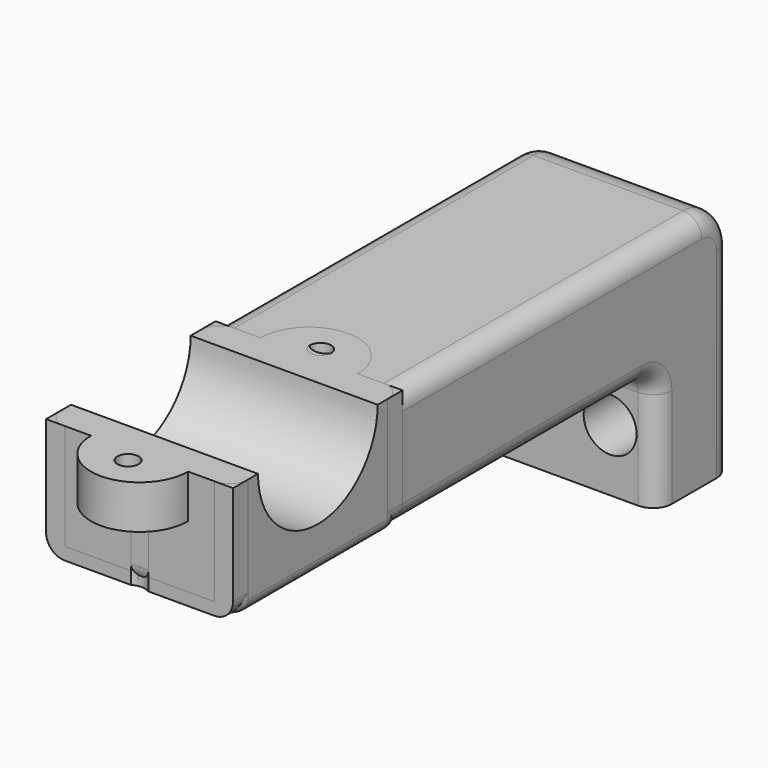
from build123d import *

# Parameters (mm, degrees)
SKETCH_W               = 30
SKETCH_H               = 38
PAD_DEPTH              = 15
SKETCH001_W            = 30
SKETCH001_H            = 19
PAD001_DEPTH           = 85
POCKET_DEPTH           = 30.001
SKETCH004_R            = 2.25
POCKET001_DEPTH        = 15.001
SKETCH005_R            = 4.25
POCKET002_DEPTH        = 10
PAD002_DEPTH           = 7
SKETCH007_R            = 2.3
POCKET003_DEPTH        = 4.2
SKETCH008_R            = 2.3
POCKET004_DEPTH        = 4.2
FILLET_R               = 3
FILLET007_R            = 6
FILLET008_R            = 3
FILLET009_R            = 3
FILLET010_R            = 3
CHAMFER_SIZE           = 1
BOX001_W               = 30
BOX001_H               = 83
BOX001_DEPTH           = 38
SKETCH017_W            = 30
SKETCH017_H            = 38
PAD006_DEPTH           = 15
SKETCH018_W            = 30
SKETCH018_H            = 19
PAD007_DEPTH           = 85
POCKET010_DEPTH        = 30.001
SKETCH020_R            = 2.25
POCKET011_DEPTH        = 15.001
SKETCH021_R            = 4.25
POCKET012_DEPTH        = 10
PAD008_DEPTH           = 7
SKETCH023_R            = 2.7
POCKET013_DEPTH        = 3.2
POCKET013_DEPTH_BACK   = -12
SKETCH024_R            = 1.7
POCKET014_DEPTH        = 38.001
CUT001_PLACEMENT_ANGLE = 180
BOX_W                  = 30
BOX_H                  = 83
BOX_DEPTH              = 38
SKETCH009_W            = 30
SKETCH009_H            = 38
PAD003_DEPTH           = 15
SKETCH010_W            = 30
SKETCH010_H            = 19
PAD004_DEPTH           = 85
POCKET005_DEPTH        = 30.001
SKETCH012_R            = 2.25
POCKET006_DEPTH        = 15.001
SKETCH013_R            = 4.25
POCKET007_DEPTH        = 10
PAD005_DEPTH           = 7
SKETCH015_R            = 2.7
POCKET008_DEPTH        = 3.2
POCKET008_DEPTH_BACK   = -12
SKETCH016_R            = 1.7
POCKET009_DEPTH        = 38.001
FILLET005_R            = 3
FILLET006_R            = 3
FILLET011_R            = 3
FILLET012_R            = 2
FILLET013_R            = 2


with BuildPart() as bracket:
    # Sketch → Pad (new body)
    with BuildSketch(Plane.XZ):
        with Locations((0, 19)):
            Rectangle(SKETCH_W, SKETCH_H)
    extrude(amount=PAD_DEPTH)

    # Sketch001 (on Face6 of Pad) → Pad001 (join)
    with BuildSketch(Plane.XZ.offset(15)):
        with Locations((0, 28.5)):
            Rectangle(SKETCH001_W, SKETCH001_H)
    extrude(amount=PAD001_DEPTH)

    # Sketch003 (on Face6 of Pad001) → Pocket (cut, through all)
    with BuildSketch(Plane(origin=(-15, 0, 0), x_dir=(0, 0, -1), z_dir=(-1, 0, 0))):
        with BuildLine():
            ThreePointArc((-38, 69.6), (-25.3, 82.3), (-38, 95))
            Line((-38, 69.6), (-38, 95))
        make_face()
    extrude(amount=-POCKET_DEPTH, mode=Mode.SUBTRACT)

    # Sketch004 (on Face5 of Pocket) → Pocket001 (cut, through all)
    with BuildSketch(Plane.XZ.offset(15)):
        with Locations((-7.5, 10)):
            Circle(SKETCH004_R)
        with Locations((7.5, 10)):
            Circle(SKETCH004_R)
    extrude(amount=-POCKET001_DEPTH, mode=Mode.SUBTRACT)

    # Sketch005 (on Face5 of Pocket001) → Pocket002 (cut)
    with BuildSketch(Plane.XZ.offset(15)):
        with Locations((-7.5, 10)):
            Circle(SKETCH005_R)
        with Locations((7.5, 10)):
            Circle(SKETCH005_R)
    extrude(amount=-POCKET002_DEPTH, mode=Mode.SUBTRACT)

    # Sketch006 (on Face8 of Pocket002) → Pad002 (join)
    with BuildSketch(Plane(origin=(0, 0, 38), x_dir=(-1, 0, 0), z_dir=(0, 0, 1))):
        with BuildLine():
            ThreePointArc((7.8, 100), (-1e-06, 107.8), (-7.8, 99.999997))
            Line((-7.8, 99.999997), (7.8, 100))
        make_face()
    extrude(amount=-PAD002_DEPTH)

    # Sketch007 (on Face18 of Pad002) → Pocket003 (cut)
    with BuildSketch(Plane(origin=(0, 0, 38), x_dir=(-1, 0, 0), z_dir=(0, 0, 1))):
        with Locations((0, 102.3)):
            Circle(SKETCH007_R)
    extrude(amount=-POCKET003_DEPTH, mode=Mode.SUBTRACT)

    # Sketch008 (on Face6 of Pocket003) → Pocket004 (cut)
    with BuildSketch(Plane(origin=(0, 0, 38), x_dir=(-1, 0, 0), z_dir=(0, 0, 1))):
        with Locations((0, 62.3)):
            Circle(SKETCH008_R)
    extrude(amount=-POCKET004_DEPTH, mode=Mode.SUBTRACT)

    # Fillet
    fillet_edges = [bracket.edges().sort_by_distance(p)[0] for p in [
        (0, -15, 19),
    ]]
    fillet(fillet_edges, radius=FILLET_R)

    # Fillet007
    fillet007_edges = [bracket.edges().sort_by_distance(p)[0] for p in [
        (0, 0, 38),
    ]]
    fillet(fillet007_edges, radius=FILLET007_R)

    # Fillet008
    fillet008_edges = [bracket.edges().sort_by_distance(p)[0] for p in [
        (15, -59, 19),
        (-15, -59, 19),
    ]]
    fillet(fillet008_edges, radius=FILLET008_R)

    # Fillet009
    fillet009_edges = [bracket.edges().sort_by_distance(p)[0] for p in [
        (0, -100, 19),
    ]]
    fillet(fillet009_edges, radius=FILLET009_R)

    # Fillet010
    fillet010_edges = [bracket.edges().sort_by_distance(p)[0] for p in [
        (15, -37.8, 38),
        (-15, -37.8, 38),
    ]]
    fillet(fillet010_edges, radius=FILLET010_R)

    # Chamfer
    chamfer_edges = [bracket.edges().sort_by_distance(p)[0] for p in [
        (-9.75, -5, 10),
        (5.25, -5, 10),
    ]]
    chamfer(chamfer_edges, length=CHAMFER_SIZE)


with BuildPart() as cube001:
    # Box001 → Box001 (new body)
    with BuildSketch(Plane(origin=(-15, -83, 0), x_dir=(1, 0, 0), z_dir=(0, 0, 1))):
        with Locations((15, 41.5)):
            Rectangle(BOX001_W, BOX001_H)
    extrude(amount=BOX001_DEPTH)


with BuildPart() as cut001:
    # Sketch017 → Pad006 (new body)
    with BuildSketch(Plane.XZ):
        with Locations((0, 19)):
            Rectangle(SKETCH017_W, SKETCH017_H)
    extrude(amount=PAD006_DEPTH)

    # Sketch018 (on Face6 of Pad006) → Pad007 (join)
    with BuildSketch(Plane.XZ.offset(15)):
        with Locations((0, 28.5)):
            Rectangle(SKETCH018_W, SKETCH018_H)
    extrude(amount=PAD007_DEPTH)

    # Sketch019 (on Face6 of Pad007) → Pocket010 (cut, through all)
    with BuildSketch(Plane(origin=(-15, 0, 0), x_dir=(0, 0, -1), z_dir=(-1, 0, 0))):
        with BuildLine():
            ThreePointArc((-38, 71), (-26, 83), (-38, 95))
            Line((-38, 71), (-38, 95))
        make_face()
    extrude(amount=-POCKET010_DEPTH, mode=Mode.SUBTRACT)

    # Sketch020 (on Face5 of Pocket010) → Pocket011 (cut, through all)
    with BuildSketch(Plane.XZ.offset(15)):
        with Locations((-7.5, 10)):
            Circle(SKETCH020_R)
        with Locations((7.5, 10)):
            Circle(SKETCH020_R)
    extrude(amount=-POCKET011_DEPTH, mode=Mode.SUBTRACT)

    # Sketch021 (on Face5 of Pocket011) → Pocket012 (cut)
    with BuildSketch(Plane.XZ.offset(15)):
        with Locations((-7.5, 10)):
            Circle(SKETCH021_R)
        with Locations((7.5, 10)):
            Circle(SKETCH021_R)
    extrude(amount=-POCKET012_DEPTH, mode=Mode.SUBTRACT)

    # Sketch022 (on Face8 of Pocket012) → Pad008 (join)
    with BuildSketch(Plane(origin=(0, 0, 38), x_dir=(-1, 0, 0), z_dir=(0, 0, 1))):
        with BuildLine():
            ThreePointArc((7.8, 100), (-1e-06, 107.8), (-7.8, 99.999997))
            Line((-7.8, 99.999997), (7.8, 100))
        make_face()
    extrude(amount=-PAD008_DEPTH)

    # Sketch023 (on Face15 of Pad008) → Pocket013 (cut, two sides)
    with BuildSketch(Plane(origin=(0, 0, 31), x_dir=(1, 0, 0), z_dir=(0, 0, -1))) as pocket013_sk:
        with Locations((0, 102.3)):
            Circle(SKETCH023_R)
    extrude(amount=-POCKET013_DEPTH, mode=Mode.SUBTRACT)
    extrude(pocket013_sk.sketch, amount=-POCKET013_DEPTH_BACK, mode=Mode.SUBTRACT)

    # Sketch024 (on Face8 of Pocket013) → Pocket014 (cut, through all)
    with BuildSketch(Plane(origin=(0, 0, 38), x_dir=(-1, 0, 0), z_dir=(0, 0, 1))):
        with Locations((0, 102.3)):
            Circle(SKETCH024_R)
    extrude(amount=-POCKET014_DEPTH, mode=Mode.SUBTRACT)

    # Cut001: cut Cube001
    add(cube001.part, mode=Mode.SUBTRACT)


with BuildPart() as cut001_1:
    # Cut001 placement: moved
    add(cut001.part.moved(Location((0, -166, 0))).rotate(Axis((0, -166, 0), (0, 0, 1)), CUT001_PLACEMENT_ANGLE))


with BuildPart() as cube:
    # Box → Box (new body)
    with BuildSketch(Plane(origin=(-15, -83, 0), x_dir=(1, 0, 0), z_dir=(0, 0, 1))):
        with Locations((15, 41.5)):
            Rectangle(BOX_W, BOX_H)
    extrude(amount=BOX_DEPTH)


with BuildPart() as clamp:
    # Sketch009 → Pad003 (new body)
    with BuildSketch(Plane.XZ):
        with Locations((0, 19)):
            Rectangle(SKETCH009_W, SKETCH009_H)
    extrude(amount=PAD003_DEPTH)

    # Sketch010 (on Face6 of Pad003) → Pad004 (join)
    with BuildSketch(Plane.XZ.offset(15)):
        with Locations((0, 28.5)):
            Rectangle(SKETCH010_W, SKETCH010_H)
    extrude(amount=PAD004_DEPTH)

    # Sketch011 (on Face6 of Pad004) → Pocket005 (cut, through all)
    with BuildSketch(Plane(origin=(-15, 0, 0), x_dir=(0, 0, -1), z_dir=(-1, 0, 0))):
        with BuildLine():
            ThreePointArc((-38, 71), (-26, 83), (-38, 95))
            Line((-38, 71), (-38, 95))
        make_face()
    extrude(amount=-POCKET005_DEPTH, mode=Mode.SUBTRACT)

    # Sketch012 (on Face5 of Pocket005) → Pocket006 (cut, through all)
    with BuildSketch(Plane.XZ.offset(15)):
        with Locations((-7.5, 10)):
            Circle(SKETCH012_R)
        with Locations((7.5, 10)):
            Circle(SKETCH012_R)
    extrude(amount=-POCKET006_DEPTH, mode=Mode.SUBTRACT)

    # Sketch013 (on Face5 of Pocket006) → Pocket007 (cut)
    with BuildSketch(Plane.XZ.offset(15)):
        with Locations((-7.5, 10)):
            Circle(SKETCH013_R)
        with Locations((7.5, 10)):
            Circle(SKETCH013_R)
    extrude(amount=-POCKET007_DEPTH, mode=Mode.SUBTRACT)

    # Sketch014 (on Face8 of Pocket007) → Pad005 (join)
    with BuildSketch(Plane(origin=(0, 0, 38), x_dir=(-1, 0, 0), z_dir=(0, 0, 1))):
        with BuildLine():
            ThreePointArc((7.8, 100), (-1e-06, 107.8), (-7.8, 99.999997))
            Line((-7.8, 99.999997), (7.8, 100))
        make_face()
    extrude(amount=-PAD005_DEPTH)

    # Sketch015 (on Face15 of Pad005) → Pocket008 (cut, two sides)
    with BuildSketch(Plane(origin=(0, 0, 31), x_dir=(1, 0, 0), z_dir=(0, 0, -1))) as pocket008_sk:
        with Locations((0, 102.3)):
            Circle(SKETCH015_R)
    extrude(amount=-POCKET008_DEPTH, mode=Mode.SUBTRACT)
    extrude(pocket008_sk.sketch, amount=-POCKET008_DEPTH_BACK, mode=Mode.SUBTRACT)

    # Sketch016 (on Face8 of Pocket008) → Pocket009 (cut, through all)
    with BuildSketch(Plane(origin=(0, 0, 38), x_dir=(-1, 0, 0), z_dir=(0, 0, 1))):
        with Locations((0, 102.3)):
            Circle(SKETCH016_R)
    extrude(amount=-POCKET009_DEPTH, mode=Mode.SUBTRACT)

    # Cut: cut Cube
    add(cube.part, mode=Mode.SUBTRACT)

    # Fusion: union Cut001
    add(cut001_1.part)


with BuildPart() as body:
    # Body003 base: copy of clamp
    add(clamp.part)

    # Fillet005
    fillet005_edges = [body.edges().sort_by_distance(p)[0] for p in [
        (15, -74.5, 19),
    ]]
    fillet(fillet005_edges, radius=FILLET005_R)

    # Fillet006
    fillet006_edges = [body.edges().sort_by_distance(p)[0] for p in [
        (-15, -83, 19),
    ]]
    fillet(fillet006_edges, radius=FILLET006_R)


with BuildPart() as clamp001:
    # Body004 base: copy of clamp
    add(clamp.part)

    # Fillet011
    fillet011_edges = [clamp001.edges().sort_by_distance(p)[0] for p in [
        (-15, -66, 28.5),
        (15, -66, 28.5),
        (-15, -100, 28.5),
        (15, -100, 28.5),
    ]]
    fillet(fillet011_edges, radius=FILLET011_R)

    # Fillet012
    fillet012_edges = [clamp001.edges().sort_by_distance(p)[0] for p in [
        (-6.707107, -66, 19),
    ]]
    fillet(fillet012_edges, radius=FILLET012_R)

    # Fillet013
    fillet013_edges = [clamp001.edges().sort_by_distance(p)[0] for p in [
        (15, -83, 19),
    ]]
    fillet(fillet013_edges, radius=FILLET013_R)


solid = Compound([bracket.part, body.part, clamp001.part])
